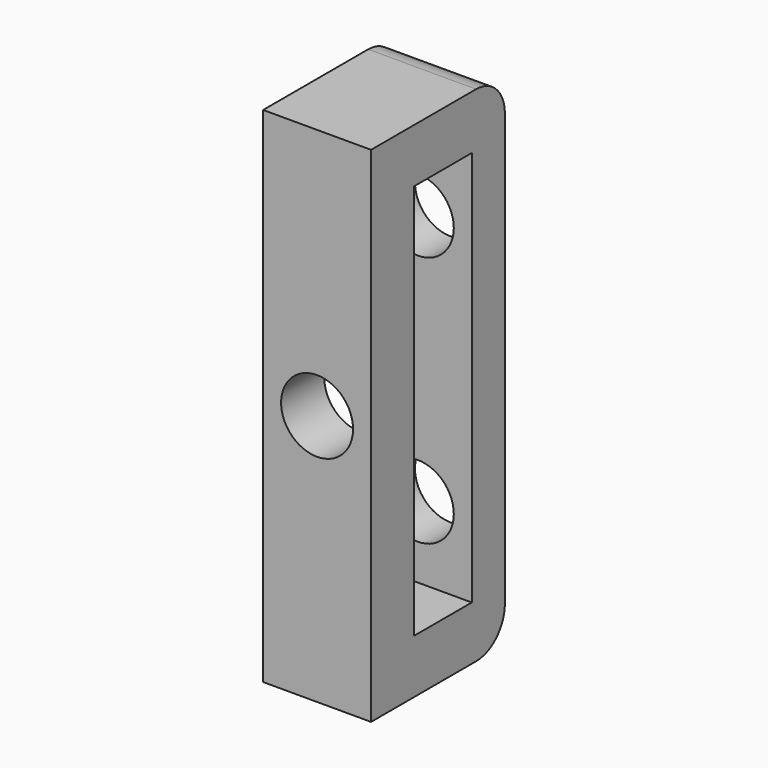
from build123d import *

# Parameters (mm, degrees)
BOX226_W          = 6
BOX226_H          = 4
BOX226_DEPTH      = 3
CYLINDER090_R     = 2
CYLINDER090_DEPTH = 5
CYLINDER089_R     = 2
CYLINDER089_DEPTH = 5
BOX223_W          = 6
BOX223_H          = 2.3
BOX223_DEPTH      = 28
FILLET056_R       = 2
BOX225_W          = 6
BOX225_H          = 4
BOX225_DEPTH      = 3
CYLINDER091_R     = 2
CYLINDER091_DEPTH = 5
BOX224_W          = 6
BOX224_H          = 3
BOX224_DEPTH      = 28


with BuildPart() as cube214:
    # Box226 → Box226 (new body)
    with BuildSketch(Plane(origin=(22.5, 53, -9.5), x_dir=(1, 0, 0), z_dir=(0, 0, 1))):
        with Locations((3, 2)):
            Rectangle(BOX226_W, BOX226_H)
    extrude(amount=BOX226_DEPTH)


with BuildPart() as cylinder171:
    # Cylinder090 → Cylinder090 (new body)
    with BuildSketch(Plane(origin=(25.5, 60, -27.5), x_dir=(1, 0, 0), z_dir=(0, -1, 0))):
        Circle(CYLINDER090_R)
    extrude(amount=CYLINDER090_DEPTH)


with BuildPart() as cylinder170:
    # Cylinder089 → Cylinder089 (new body)
    with BuildSketch(Plane(origin=(25.5, 60, -13.5), x_dir=(1, 0, 0), z_dir=(0, -1, 0))):
        Circle(CYLINDER089_R)
    extrude(amount=CYLINDER089_DEPTH)


with BuildPart() as fillet056:
    # Box223 → Box223 (new body)
    with BuildSketch(Plane(origin=(22.5, 57, -34.5), x_dir=(1, 0, 0), z_dir=(0, 0, 1))):
        with Locations((3, 1.15)):
            Rectangle(BOX223_W, BOX223_H)
    extrude(amount=BOX223_DEPTH)

    # Cut113: cut Cylinder170
    add(cylinder170.part, mode=Mode.SUBTRACT)

    # Cut114: cut Cylinder171
    add(cylinder171.part, mode=Mode.SUBTRACT)

    # Fillet056
    fillet056_edges = [fillet056.edges().sort_by_distance(p)[0] for p in [
        (25.5, 59.3, -6.5),
        (25.5, 59.3, -34.5),
    ]]
    fillet(fillet056_edges, radius=FILLET056_R)


with BuildPart() as cube213:
    # Box225 → Box225 (new body)
    with BuildSketch(Plane(origin=(22.5, 53, -34.5), x_dir=(1, 0, 0), z_dir=(0, 0, 1))):
        with Locations((3, 2)):
            Rectangle(BOX225_W, BOX225_H)
    extrude(amount=BOX225_DEPTH)


with BuildPart() as cylinder172:
    # Cylinder091 → Cylinder091 (new body)
    with BuildSketch(Plane(origin=(25.5, 54, -20.5), x_dir=(1, 0, 0), z_dir=(0, -1, 0))):
        Circle(CYLINDER091_R)
    extrude(amount=CYLINDER091_DEPTH)


with BuildPart() as fusion071:
    # Box224 → Box224 (new body)
    with BuildSketch(Plane(origin=(22.5, 50, -34.5), x_dir=(1, 0, 0), z_dir=(0, 0, 1))):
        with Locations((3, 1.5)):
            Rectangle(BOX224_W, BOX224_H)
    extrude(amount=BOX224_DEPTH)

    # Cut115: cut Cylinder172
    add(cylinder172.part, mode=Mode.SUBTRACT)

    # Fusion071: union Cube214, Fillet056, Cube213
    add(cube214.part)
    add(fillet056.part)
    add(cube213.part)


solid = fusion071.part
